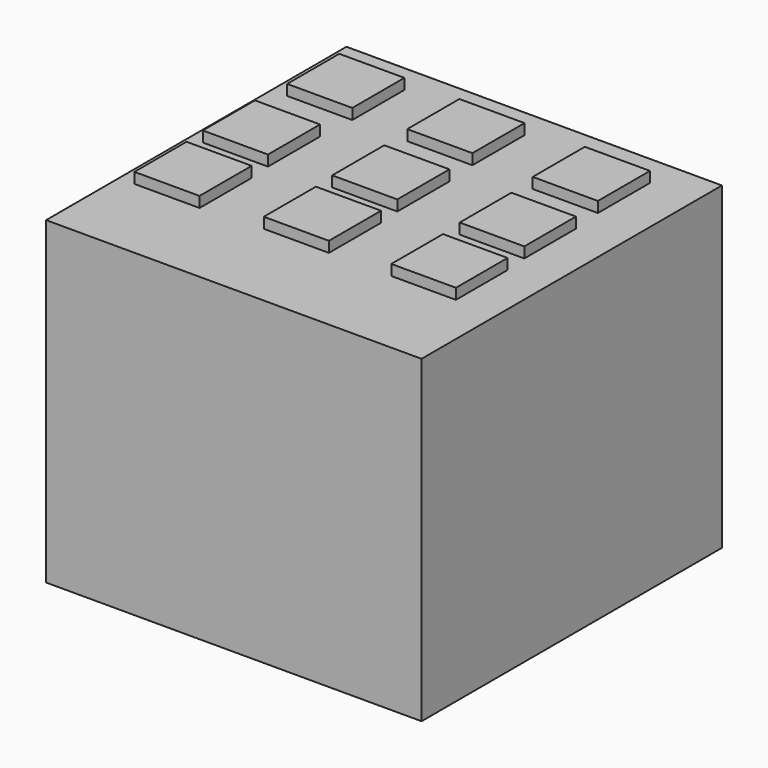
from build123d import *

# Parameters (mm, degrees)
SKETCH_W      = 70.606116
SKETCH_H      = 70.606116
PAD_DEPTH     = 60
SKETCH002_W   = 12.25
SKETCH002_H   = 12.25
SKETCH002_W_2 = 12.146065
SKETCH002_H_2 = 12.146065
PAD001_DEPTH  = 2


with BuildPart() as part:
    # Sketch → Pad (new body)
    with BuildSketch(Plane.XY):
        with Locations((1.484864, 0.958671)):
            Rectangle(SKETCH_W, SKETCH_H)
    extrude(amount=PAD_DEPTH)

    # Sketch002 (on Face6 of Pad) → Pad001 (join)
    with BuildSketch(Plane.XY.offset(60)):
        with Locations((-24.720272, 24.727009)):
            Rectangle(SKETCH002_W, SKETCH002_H)
        with Locations((-1.962364, 24.515921)):
            Rectangle(SKETCH002_W, SKETCH002_H)
        with Locations((21.918622, 24.155907)):
            Rectangle(SKETCH002_W, SKETCH002_H)
        with Locations((-25.132774, 5.421042)):
            Rectangle(SKETCH002_W, SKETCH002_H)
        with Locations((-1.381286, 6.141071)):
            Rectangle(SKETCH002_W, SKETCH002_H)
        with Locations((22.56116, 6.073033)):
            Rectangle(SKETCH002_W_2, SKETCH002_H_2)
        with Locations((-24.753076, -11.130706)):
            Rectangle(SKETCH002_W, SKETCH002_H)
        with Locations((-1.001588, -10.410677)):
            Rectangle(SKETCH002_W, SKETCH002_H)
        with Locations((22.940858, -10.478715)):
            Rectangle(SKETCH002_W_2, SKETCH002_H_2)
    extrude(amount=PAD001_DEPTH)


solid = part.part
